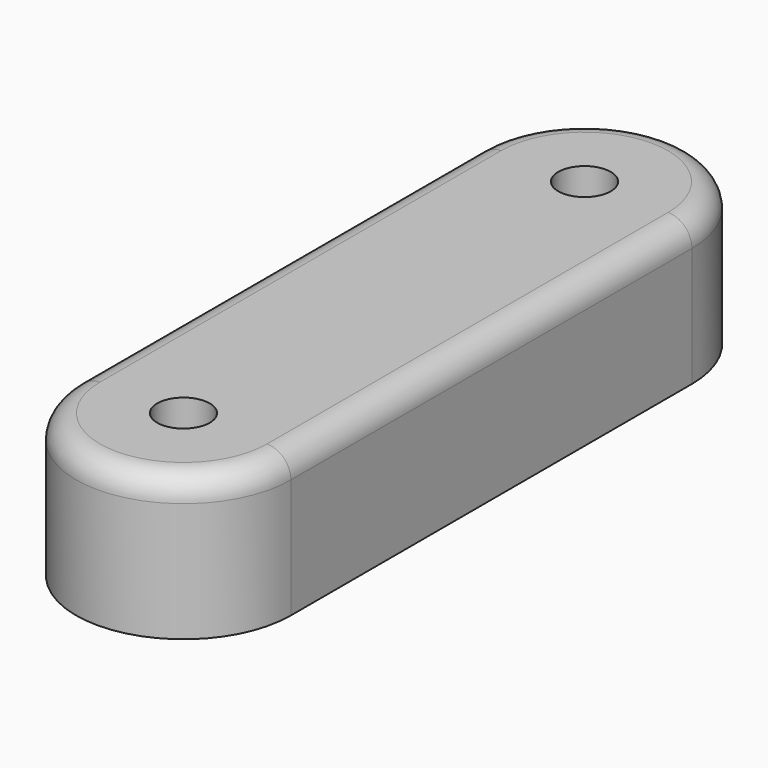
from build123d import *

# Parameters (mm, degrees)
SKETCH_R  = 1.1
PAD_DEPTH = 6
FILLET_R  = 1


with BuildPart() as part:
    # Sketch → Pad (new body)
    with BuildSketch(Plane.XY):
        with BuildLine():
            ThreePointArc((4.5, 10.5), (0, 15), (-4.5, 10.5))
            Line((-4.5, 10.5), (-4.5, -10.5))
            ThreePointArc((-4.5, -10.5), (0, -15), (4.5, -10.5))
            Line((4.5, -10.5), (4.5, 10.5))
        make_face()
        with Locations((0, 10.5)):
            Circle(SKETCH_R, mode=Mode.SUBTRACT)
        with Locations((0, -10.5)):
            Circle(SKETCH_R, mode=Mode.SUBTRACT)
    extrude(amount=PAD_DEPTH)

    # Fillet
    fillet_edges = [part.edges().sort_by_distance(p)[0] for p in [
        (-4.5, 0, 6),
    ]]
    fillet(fillet_edges, radius=FILLET_R)


solid = part.part
